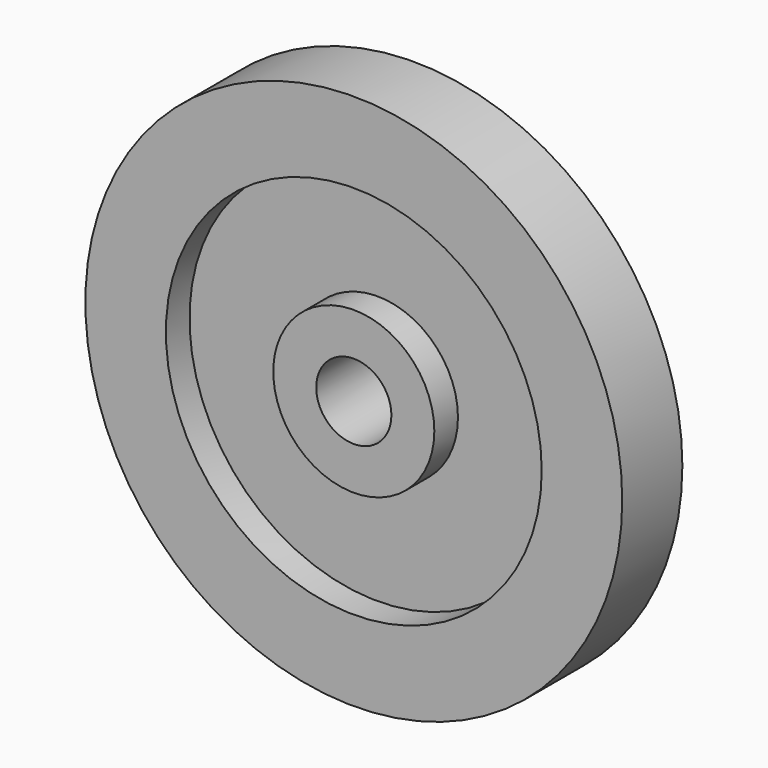
from build123d import *

# Parameters (mm, degrees)
F0_R     = 50
F0_R_2   = 35
F1_DEPTH = 7
F0_R_3   = 15
F2_DEPTH = 1.5
F0_R_4   = 7
F3_DEPTH = 7


with BuildPart() as f1:
    # F0 (on Front) → F1 (new body, symmetric)
    with BuildSketch(Plane.XZ):
        Circle(F0_R)
        Circle(F0_R_2, mode=Mode.SUBTRACT)
    extrude(amount=F1_DEPTH, both=True)

    # F0 (on Front) → F2 (join, symmetric)
    with BuildSketch(Plane.XZ):
        Circle(F0_R_2)
        Circle(F0_R_3, mode=Mode.SUBTRACT)
    extrude(amount=F2_DEPTH, both=True)

    # F0 (on Front) → F3 (join, symmetric)
    with BuildSketch(Plane.XZ):
        Circle(F0_R_3)
        Circle(F0_R_4, mode=Mode.SUBTRACT)
    extrude(amount=F3_DEPTH, both=True)


solid = f1.part
